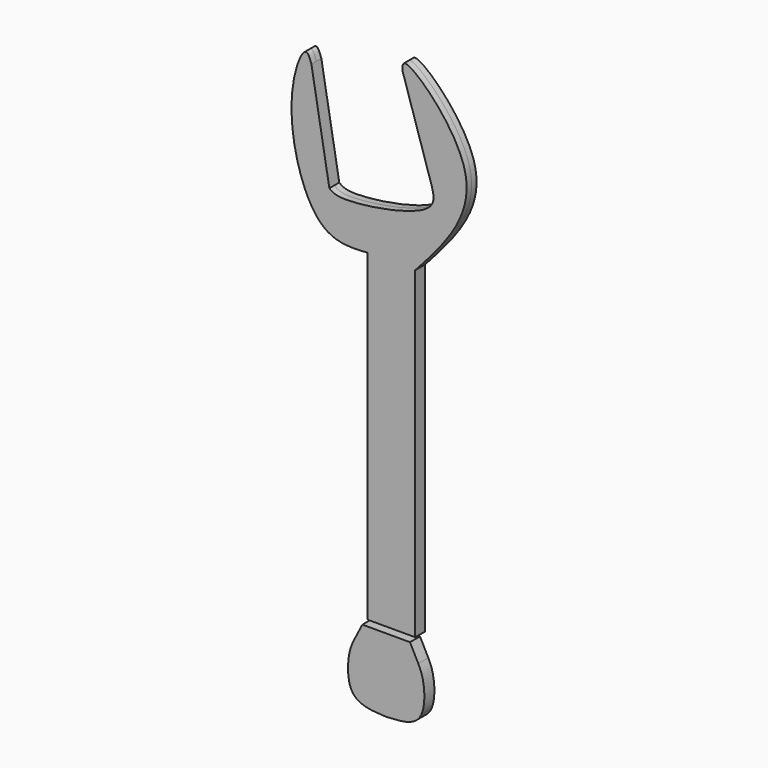
from build123d import *

# Parameters (mm, degrees)
F0_R     = 4.1276908543
F1_DEPTH = 2.5654
F3_DEPTH = 1.27
F5_DEPTH = 1.27


with BuildPart() as f1:
    # F0 (on Front) → F1 (new body)
    with BuildSketch(Plane.XZ):
        with BuildLine():
            add(Edge.make_bspline(
                [(0, -74.7398287058), (-2.6957496567, -74.6143655928), (-8.0783391659, -74.3638540389), (-7.896167718, -65.7972104685), (-6.9462192909, -63.8078220004), (-6.5654343925, -63.0103796721)],
                knots=[0, 0, 0, 0, 0.3754445557, 0.7496482182, 1, 1, 1, 1], degree=3))
            add(Edge.make_bspline(
                [(0, -74.7398287058), (2.6957496567, -74.6143655928), (8.0783391659, -74.3638540389), (7.896167718, -65.7972104685), (6.9462192909, -63.8078220004), (6.5654343925, -63.0103796721)],
                knots=[0, 0, 0, 0, 0.3754445557, 0.7496482182, 1, 1, 1, 1], degree=3))
            Line((6.5654343925, -63.0103796721), (4.8701618798, -59.7114712))
            Line((4.8701618798, -59.7114712), (-4.8701618798, -59.7114712))
            Line((-4.8701618798, -59.7114712), (-6.5654343925, -63.0103796721))
        make_face()
        with Locations((0, -69.3332850933)):
            Circle(F0_R, mode=Mode.SUBTRACT)
        with Locations((0, -69.3332850933)):
            Circle(F0_R)
    extrude(amount=F1_DEPTH)


with BuildPart() as f3:
    # F2 (on Front) → F3 (new body, symmetric)
    with BuildSketch(Plane.XZ):
        with BuildLine():
            add(Edge.make_bspline(
                [(-4.870638717, 6.7057721317), (-8.1624512163, 6.5038067464), (-16.4394258345, 5.9959824496), (-22.5493572738, 28.3095871952), (-17.6429563519, 40.7485223081), (-16.6454227734, 37.8691800893), (-16.3271799684, 36.950584501)],
                knots=[0, 0, 0, 0, 0.249708204, 0.6278694387, 0.8812793111, 1, 1, 1, 1], degree=3))
            add(Edge.make_bspline(
                [(-4.870638717, 6.7057721317), (-1.623546239, 6.7057721317), (1.623546239, 6.7057721317), (4.870638717, 6.7057721317)],
                knots=[0, 0, 0, 0, 9.7412774339, 9.7412774339, 9.7412774339, 9.7412774339], degree=3))
            add(Edge.make_bspline(
                [(2.2639525123, 41.9173613191), (2.2710740065, 42.5878349979), (2.3040198395, 45.6896157741), (22.5820118952, 26.3698101383), (10.966536241, 13.473737517), (4.870638717, 6.7057721317)],
                knots=[0, 0, 0, 0, 0.115859603, 0.5359958199, 1, 1, 1, 1], degree=3))
            Line((2.2639525123, 41.9173613191), (8.2576228306, 23.0801068246))
            add(Edge.make_bspline(
                [(-12.6575846225, 15.7892536372), (-12.1429601945, 15.3891007015), (-10.2979839458, 13.9545153574), (9.8990015791, 17.1438520791), (8.6599021449, 21.6252125837), (8.2576228306, 23.0801068246)],
                knots=[0, 0, 0, 0, 0.2071333369, 0.7425922015, 1, 1, 1, 1], degree=3))
            Line((-12.6575846225, 15.7892536372), (-16.3271799684, 36.950584501))
        make_face()
    extrude(amount=F3_DEPTH, both=True)

    # F4 (on Front) → F5 (join, symmetric)
    with BuildSketch(Plane.XZ):
        Polygon((4.903475754, 6.7454921082), (-4.8410594463, 6.7454921082), (-4.8548677005, -59.3397207558), (4.903475754, -59.3397207558), align=None)
    extrude(amount=F5_DEPTH, both=True)


solid = Compound([f1.part, f3.part])
